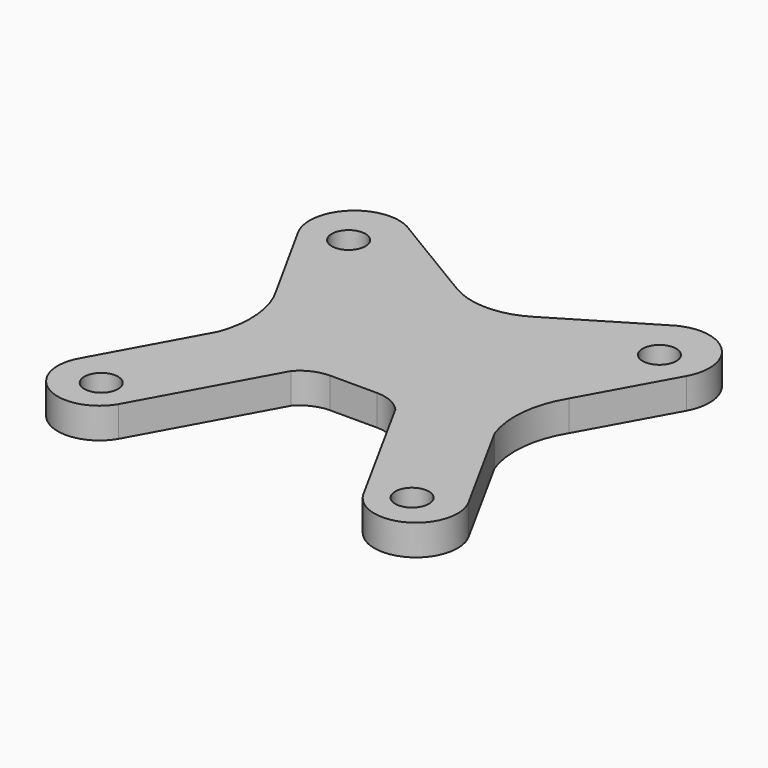
from build123d import *

# Parameters (mm, degrees)
F0_R     = 1.65
F1_DEPTH = 3


with BuildPart() as f1:
    # F0 (on Top) → F1 (new body)
    with BuildSketch(Plane.XY):
        with BuildLine():
            Line((25.666904, 38.365215), (16.175199, 32.664735))
            ThreePointArc((16.175199, 32.664735), (12.457387, 31.634114), (8.739574, 32.664735))
            Line((8.739574, 32.664735), (-0.752131, 38.365215))
            ThreePointArc((-0.752131, 38.365215), (-5.909024, 37.526401), (-6.605348, 32.348342))
            Line((-6.605348, 32.348342), (-1.891134, 23.80581))
            ThreePointArc((-1.891134, 23.80581), (-0.565792, 19.850345), (-1.078656, 15.710393))
            Line((-1.078656, 15.710393), (-6.626951, 5.598176))
            ThreePointArc((-6.626951, 5.598176), (-5.118477, 0.042676), (0.448756, 1.507255))
            Line((0.448756, 1.507255), (7.333277, 14.054853))
            ThreePointArc((7.333277, 14.054853), (8.606293, 15.00621), (10.159295, 15.343606))
            Line((10.159295, 15.343606), (12.457387, 15.343606))
            Line((12.457387, 15.343606), (14.755478, 15.343606))
            ThreePointArc((14.755478, 15.343606), (16.30848, 15.00621), (17.581496, 14.054853))
            Line((17.581496, 14.054853), (24.466017, 1.507255))
            ThreePointArc((24.466017, 1.507255), (30.03325, 0.042676), (31.541724, 5.598176))
            Line((31.541724, 5.598176), (25.993429, 15.710393))
            ThreePointArc((25.993429, 15.710393), (25.480565, 19.850345), (26.805907, 23.80581))
            Line((26.805907, 23.80581), (31.520121, 32.348342))
            ThreePointArc((31.520121, 32.348342), (30.823797, 37.526401), (25.666904, 38.365215))
        make_face()
        with Locations((-2.792613, 3.451037)):
            Circle(F0_R, mode=Mode.SUBTRACT)
        with Locations((27.707387, 3.451037)):
            Circle(F0_R, mode=Mode.SUBTRACT)
        with Locations((-2.792613, 33.790216)):
            Circle(F0_R, mode=Mode.SUBTRACT)
        with Locations((27.707387, 33.790216)):
            Circle(F0_R, mode=Mode.SUBTRACT)
        with BuildLine():
            Line((25.666904, 38.365215), (16.175199, 32.664735))
            ThreePointArc((16.175199, 32.664735), (12.457387, 31.634114), (8.739574, 32.664735))
            Line((8.739574, 32.664735), (-0.752131, 38.365215))
            ThreePointArc((-0.752131, 38.365215), (-5.909024, 37.526401), (-6.605348, 32.348342))
            Line((-6.605348, 32.348342), (-1.891134, 23.80581))
            ThreePointArc((-1.891134, 23.80581), (-0.565792, 19.850345), (-1.078656, 15.710393))
            Line((-1.078656, 15.710393), (-6.626951, 5.598176))
            ThreePointArc((-6.626951, 5.598176), (-5.118477, 0.042676), (0.448756, 1.507255))
            Line((0.448756, 1.507255), (7.333277, 14.054853))
            ThreePointArc((7.333277, 14.054853), (8.606293, 15.00621), (10.159295, 15.343606))
            Line((10.159295, 15.343606), (12.457387, 15.343606))
            Line((12.457387, 15.343606), (14.755478, 15.343606))
            ThreePointArc((14.755478, 15.343606), (16.30848, 15.00621), (17.581496, 14.054853))
            Line((17.581496, 14.054853), (24.466017, 1.507255))
            ThreePointArc((24.466017, 1.507255), (30.03325, 0.042676), (31.541724, 5.598176))
            Line((31.541724, 5.598176), (25.993429, 15.710393))
            ThreePointArc((25.993429, 15.710393), (25.480565, 19.850345), (26.805907, 23.80581))
            Line((26.805907, 23.80581), (31.520121, 32.348342))
            ThreePointArc((31.520121, 32.348342), (30.823797, 37.526401), (25.666904, 38.365215))
        make_face()
        with Locations((-2.792613, 3.451037)):
            Circle(F0_R, mode=Mode.SUBTRACT)
        with Locations((27.707387, 3.451037)):
            Circle(F0_R, mode=Mode.SUBTRACT)
        with Locations((-2.792613, 33.790216)):
            Circle(F0_R, mode=Mode.SUBTRACT)
        with Locations((27.707387, 33.790216)):
            Circle(F0_R, mode=Mode.SUBTRACT)
    extrude(amount=F1_DEPTH)


solid = f1.part
